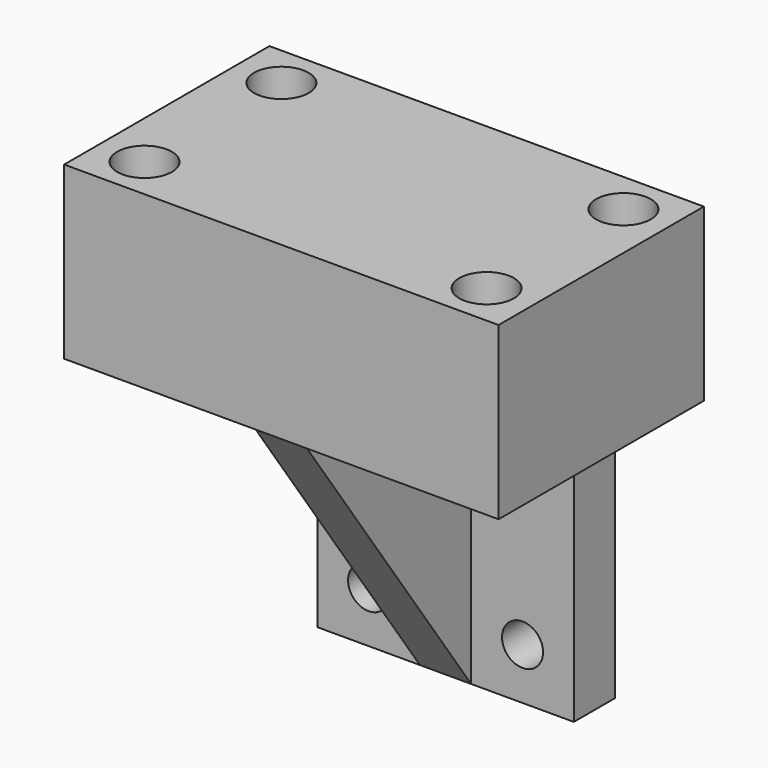
from build123d import *

# Parameters (mm, degrees)
F0_W     = 25.4
F0_H     = 15
F1_DEPTH = 10
F2_R     = 1.6
F3_DEPTH = 10
F5_DEPTH = 17
F7_DEPTH = 3
F8_R     = 1.2
F9_DEPTH = 3


with BuildPart() as f1:
    # F0 (on Top) → F1 (new body)
    with BuildSketch(Plane.XY):
        Rectangle(F0_W, F0_H)
    extrude(amount=F1_DEPTH)

    # F2 (on face) → F3 (cut, through all)
    with BuildSketch(Plane(origin=(0, 0, 0), x_dir=(1, 0, 0), z_dir=(0, 0, -1))):
        with Locations((-10, 5)):
            Circle(F2_R)
        with Locations((-10, -5)):
            Circle(F2_R)
        with Locations((10, -5)):
            Circle(F2_R)
        with Locations((10, 5)):
            Circle(F2_R)
    extrude(amount=-F3_DEPTH, mode=Mode.SUBTRACT)

    # F4 (on face) → F5 (join)
    with BuildSketch(Plane(origin=(0, 0, 0), x_dir=(1, 0, 0), z_dir=(0, 0, -1))):
        Polygon((-7.5, -4.5), (-7.5, -7.5), (0, -7.5), (0, 7.5), (-1.5, 7.5), (-1.5, -4.5), align=None)
        Polygon((0, 7.5), (0, -7.5), (7.5, -7.5), (7.5, -4.5), (1.5, -4.5), (1.5, 7.5), align=None)
    extrude(amount=F5_DEPTH)

    # F6 (on face) → F7 (cut, through all)
    with BuildSketch(Plane(origin=(-1.5, 0, 0), x_dir=(0, -1, 0), z_dir=(-1, 0, 0))):
        Polygon((7.5, -17), (7.5, 0), (-4.5, -17), align=None)
    extrude(amount=-F7_DEPTH, mode=Mode.SUBTRACT)

    # F8 (on face) → F9 (cut, through all)
    with BuildSketch(Plane(origin=(0, 7.5, 0), x_dir=(-1, 0, 0), z_dir=(0, 1, 0))):
        with Locations((-4.5, -14)):
            Circle(F8_R)
        with Locations((4.5, -14)):
            Circle(F8_R)
    extrude(amount=-F9_DEPTH, mode=Mode.SUBTRACT)


solid = f1.part
